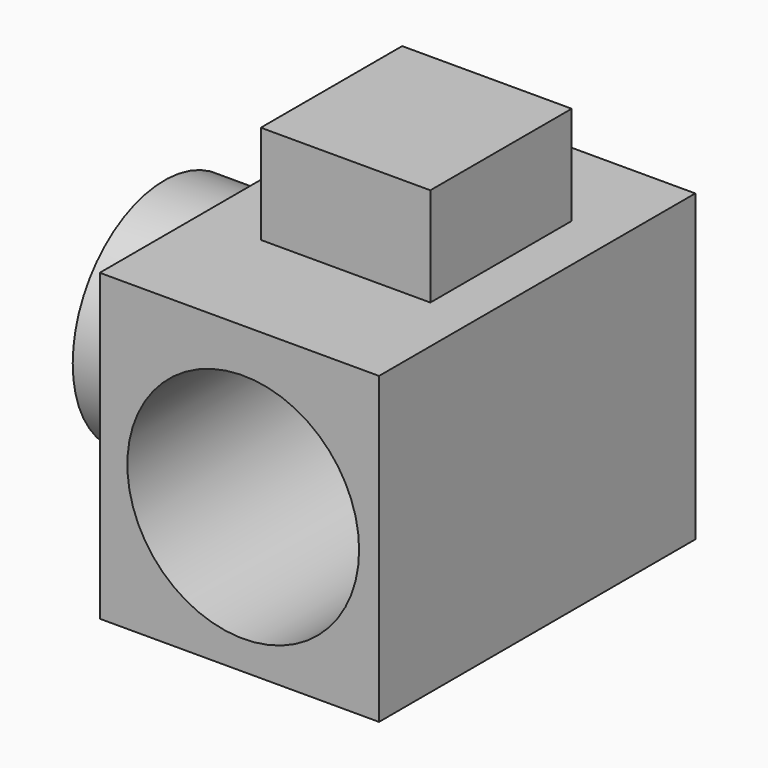
from build123d import *

# Parameters (mm, degrees)
F0_W     = 35.890091
F0_H     = 39.142508
F1_DEPTH = 50.8
F2_R     = 14.892015
F3_DEPTH = 50.8
F4_R     = 14.730043
F5_DEPTH = 12.7
F6_W     = 21.786809
F6_H     = 22.704257
F7_DEPTH = 12.7


with BuildPart() as f1:
    # F0 (on Front) → F1 (new body)
    with BuildSketch(Plane.XZ):
        with Locations((32.447086, 19.571254)):
            Rectangle(F0_W, F0_H)
    extrude(amount=F1_DEPTH)

    # F2 (on face) → F3 (cut)
    with BuildSketch(Plane.XZ.offset(50.8)):
        with Locations((32.93968, 18.618079)):
            Circle(F2_R)
    extrude(amount=-F3_DEPTH, mode=Mode.SUBTRACT)

    # F4 (on face) → F5 (join)
    with BuildSketch(Plane(origin=(14.502041, 0, 0), x_dir=(0, -1, 0), z_dir=(-1, 0, 0))):
        with Locations((24.537444, 20.065336)):
            Circle(F4_R)
    extrude(amount=F5_DEPTH)

    # F6 (on face) → F7 (join)
    with BuildSketch(Plane.XY.offset(39.142508)):
        with Locations((33.557378, -23.779297)):
            Rectangle(F6_W, F6_H)
    extrude(amount=F7_DEPTH)


solid = f1.part
